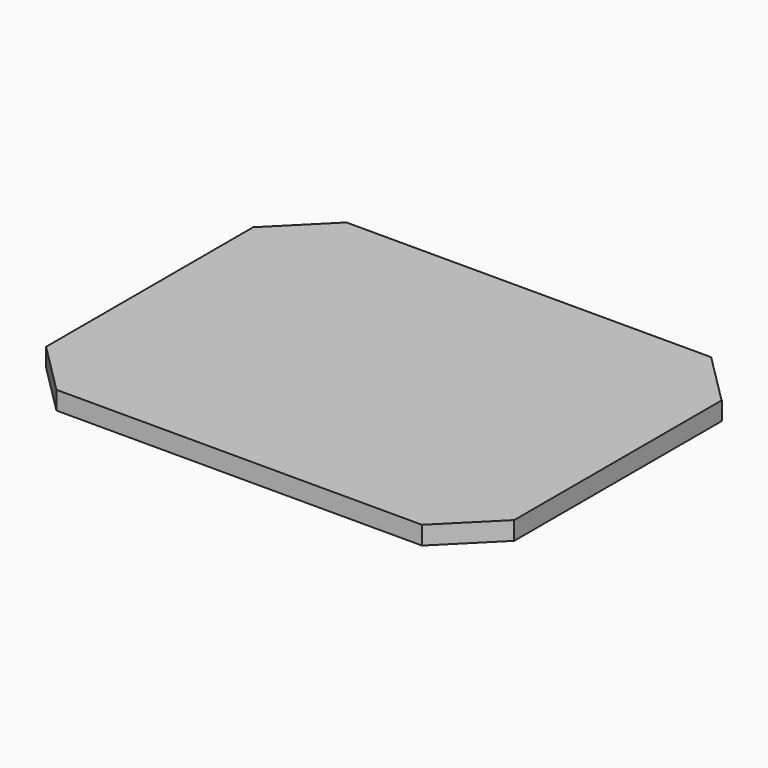
from build123d import *

# Parameters (mm, degrees)
BOX055_W               = 20
BOX055_H               = 20
BOX055_DEPTH           = 20
BOX055_PLACEMENT_ANGLE = 45
BOX056_W               = 20
BOX056_H               = 20
BOX056_DEPTH           = 20
BOX056_PLACEMENT_ANGLE = 45
BOX053_W               = 20
BOX053_H               = 20
BOX053_DEPTH           = 20
BOX053_PLACEMENT_ANGLE = -45
BOX054_W               = 20
BOX054_H               = 20
BOX054_DEPTH           = 20
BOX054_PLACEMENT_ANGLE = -45
BOX052_W               = 128
BOX052_H               = 99
BOX052_DEPTH           = 5


with BuildPart() as cubo041:
    # Box055 → Box055 (new body)
    with BuildSketch(Plane.XY):
        with Locations((10, 10)):
            Rectangle(BOX055_W, BOX055_H)
    extrude(amount=BOX055_DEPTH)


with BuildPart() as cubo041_1:
    # Box055 placement: moved
    add(cubo041.part.moved(Location((-14, -28.65, 0))).rotate(Axis((-14, -28.65, 0), (0, 0, 1)), BOX055_PLACEMENT_ANGLE))


with BuildPart() as cubo042:
    # Box056 → Box056 (new body)
    with BuildSketch(Plane.XY):
        with Locations((10, 10)):
            Rectangle(BOX056_W, BOX056_H)
    extrude(amount=BOX056_DEPTH)


with BuildPart() as cubo042_1:
    # Box056 placement: moved
    add(cubo042.part.moved(Location((-14, 70.35, 0))).rotate(Axis((-14, 70.35, 0), (0, 0, 1)), BOX056_PLACEMENT_ANGLE))


with BuildPart() as cubo039:
    # Box053 → Box053 (new body)
    with BuildSketch(Plane.XY):
        with Locations((10, 10)):
            Rectangle(BOX053_W, BOX053_H)
    extrude(amount=BOX053_DEPTH)


with BuildPart() as cubo039_1:
    # Box053 placement: moved
    add(cubo039.part.moved(Location((100, -14.5, 0))).rotate(Axis((100, -14.5, 0), (0, 0, 1)), BOX053_PLACEMENT_ANGLE))


with BuildPart() as fusion027:
    # Box054 → Box054 (new body)
    with BuildSketch(Plane.XY):
        with Locations((10, 10)):
            Rectangle(BOX054_W, BOX054_H)
    extrude(amount=BOX054_DEPTH)


with BuildPart() as fusion027_1:
    # Box054 placement: moved
    add(fusion027.part.moved(Location((99.8, 84.5, 0))).rotate(Axis((99.8, 84.5, 0), (0, 0, 1)), BOX054_PLACEMENT_ANGLE))

    # Fusion027: union Cubo041, Cubo042, Cubo039
    add(cubo041_1.part)
    add(cubo042_1.part)
    add(cubo039_1.part)


with BuildPart() as obj1:
    # Box052 → Box052 (new body)
    with BuildSketch(Plane(origin=(-14, -14.5, 0), x_dir=(1, 0, 0), z_dir=(0, 0, 1))):
        with Locations((64, 49.5)):
            Rectangle(BOX052_W, BOX052_H)
    extrude(amount=BOX052_DEPTH)

    # Cut037: cut Fusion027
    add(fusion027_1.part, mode=Mode.SUBTRACT)


with BuildPart() as obj1_1:
    # Cut037 placement: moved
    add(obj1.part.moved(Location((-29, -34, -42))))


solid = obj1_1.part
